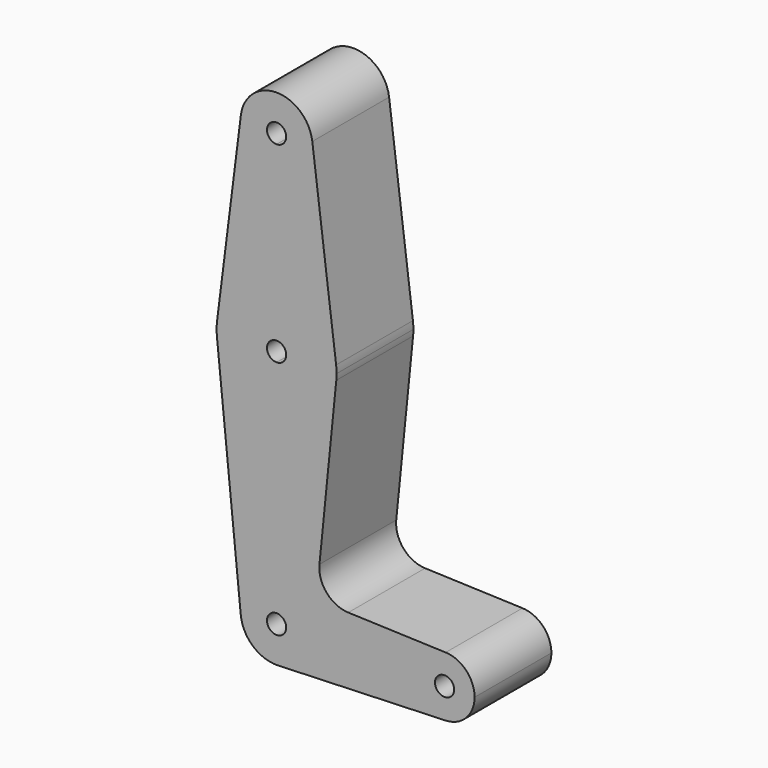
from build123d import *

# Parameters (mm, degrees)
F1_DEPTH = 1


with BuildPart() as f1:
    # F0 (on Front) → F1 (new body)
    with BuildSketch(Plane.XZ):
        with BuildLine():
            Line((0, 1.875), (0, 0.375))
            ThreePointArc((0, 0.375), (0.2651650429, 0.2651650429), (0.375, 0))
            Line((0.375, 0), (1.4375, 0))
            ThreePointArc((1.4375, 0), (1.5330109141, 0.2248821616), (1.7611607143, 0.3123006379))
            Line((1.7611607143, 0.3123006379), (0.7467559055, 0.3485525083))
            ThreePointArc((0.7467559055, 0.3485525083), (0.5220944841, 0.4555653209), (0.4465034091, 0.6926528273))
            Line((0.4465034091, 0.6926528273), (0.6218671482, 2.4375))
            ThreePointArc((0.6218671482, 2.4375), (0.4192627458, 2.0364875946), (0, 1.875))
        make_face()
        with BuildLine():
            ThreePointArc((0.375, 0), (0.2698585939, -0.2603869031), (0.0133928571, -0.3747607655))
            Line((0.0133928571, -0.3747607655), (1.7611607143, -0.3123006379))
            ThreePointArc((1.7611607143, -0.3123006379), (1.5330109141, -0.2248821616), (1.4375, 0))
            Line((1.4375, 0), (0.375, 0))
        make_face()
        with BuildLine():
            ThreePointArc((1.4375, 0), (1.5330109141, -0.2248821616), (1.7611607143, -0.3123006379))
            ThreePointArc((1.7611607143, -0.3123006379), (1.9748821616, -0.2169890859), (2.0625, 0))
            ThreePointArc((2.0625, 0), (1.9748821616, 0.2169890859), (1.7611607143, 0.3123006379))
            ThreePointArc((1.7611607143, 0.3123006379), (1.5330109141, 0.2248821616), (1.4375, 0))
        make_face()
        with BuildLine():
            ThreePointArc((1.85, 0), (1.75, -0.1), (1.65, 0))
            ThreePointArc((1.65, 0), (1.75, 0.1), (1.85, 0))
        make_face(mode=Mode.SUBTRACT)
        with BuildLine():
            Line((-0.6218671482, 2.4375), (-0.3731202889, -0.0375))
            ThreePointArc((-0.3731202889, -0.0375), (-0.2781074433, 0.2515576475), (0, 0.375))
            Line((0, 0.375), (0, 1.875))
            ThreePointArc((0, 1.875), (-0.4192627458, 2.0364875946), (-0.6218671482, 2.4375))
        make_face()
        with BuildLine():
            ThreePointArc((0, 0.375), (-0.2781074433, 0.2515576475), (-0.3731202889, -0.0375))
            ThreePointArc((-0.3731202889, -0.0375), (-0.2465505268, -0.2825559019), (0.0133928571, -0.3747607655))
            ThreePointArc((0.0133928571, -0.3747607655), (0.2698585939, -0.2603869031), (0.375, 0))
            Line((0.375, 0), (0.1, 0))
            ThreePointArc((0.1, 0), (-0.0707106781, -0.0707106781), (0, 0.1))
            Line((0, 0.1), (0, 0.375))
        make_face()
        with BuildLine():
            ThreePointArc((0.375, 0), (0.2651650429, 0.2651650429), (0, 0.375))
            Line((0, 0.375), (0, 0.1))
            ThreePointArc((0, 0.1), (0.0707106781, 0.0707106781), (0.1, 0))
            Line((0.1, 0), (0.375, 0))
        make_face()
        with BuildLine():
            Line((-0.3720587781, 4.546875), (-0.6200979635, 2.578125))
            ThreePointArc((-0.6200979635, 2.578125), (-0.4133986424, 2.96875), (0, 3.125))
            Line((0, 3.125), (0, 4.125))
            ThreePointArc((0, 4.125), (-0.28125, 4.2519608146), (-0.3720587781, 4.546875))
        make_face()
        with BuildLine():
            ThreePointArc((-0.6200979635, 2.578125), (-0.6249505439, 2.5078624207), (-0.6218671482, 2.4375))
            ThreePointArc((-0.6218671482, 2.4375), (-0.4192627458, 2.0364875946), (0, 1.875))
            Line((0, 1.875), (0, 2.4))
            ThreePointArc((0, 2.4), (-0.1, 2.5), (0, 2.6))
            Line((0, 2.6), (0, 3.125))
            ThreePointArc((0, 3.125), (-0.4133986424, 2.96875), (-0.6200979635, 2.578125))
        make_face()
        with BuildLine():
            Line((0, 2.4), (0, 1.875))
            ThreePointArc((0, 1.875), (0.4192627458, 2.0364875946), (0.6218671482, 2.4375))
            ThreePointArc((0.6218671482, 2.4375), (0.6242162957, 2.4687107656), (0.625, 2.5))
            ThreePointArc((0.625, 2.5), (0.623773287, 2.5391393203), (0.6200979635, 2.578125))
            ThreePointArc((0.6200979635, 2.578125), (0.4133986424, 2.96875), (0, 3.125))
            Line((0, 3.125), (0, 2.6))
            ThreePointArc((0, 2.6), (0.0707106781, 2.5707106781), (0.1, 2.5))
            ThreePointArc((0.1, 2.5), (0.0707106781, 2.4292893219), (0, 2.4))
        make_face()
        with BuildLine():
            Line((0, 4.125), (0, 3.125))
            ThreePointArc((0, 3.125), (0.4133986424, 2.96875), (0.6200979635, 2.578125))
            Line((0.6200979635, 2.578125), (0.3720587781, 4.546875))
            ThreePointArc((0.3720587781, 4.546875), (0.3742639722, 4.5234835922), (0.375, 4.5))
            ThreePointArc((0.375, 4.5), (0.2651650429, 4.2348349571), (0, 4.125))
        make_face()
        with BuildLine():
            ThreePointArc((0.3720587781, 4.546875), (0, 4.875), (-0.3720587781, 4.546875))
            ThreePointArc((-0.3720587781, 4.546875), (-0.28125, 4.2519608146), (0, 4.125))
            ThreePointArc((0, 4.125), (0.2651650429, 4.2348349571), (0.375, 4.5))
            ThreePointArc((0.375, 4.5), (0.3742639722, 4.5234835922), (0.3720587781, 4.546875))
        make_face()
        with BuildLine():
            ThreePointArc((0.1, 4.5), (0.0707106781, 4.4292893219), (0, 4.4))
            ThreePointArc((0, 4.4), (-0.0707106781, 4.5707106781), (0.1, 4.5))
        make_face(mode=Mode.SUBTRACT)
    extrude(amount=F1_DEPTH)


solid = f1.part
